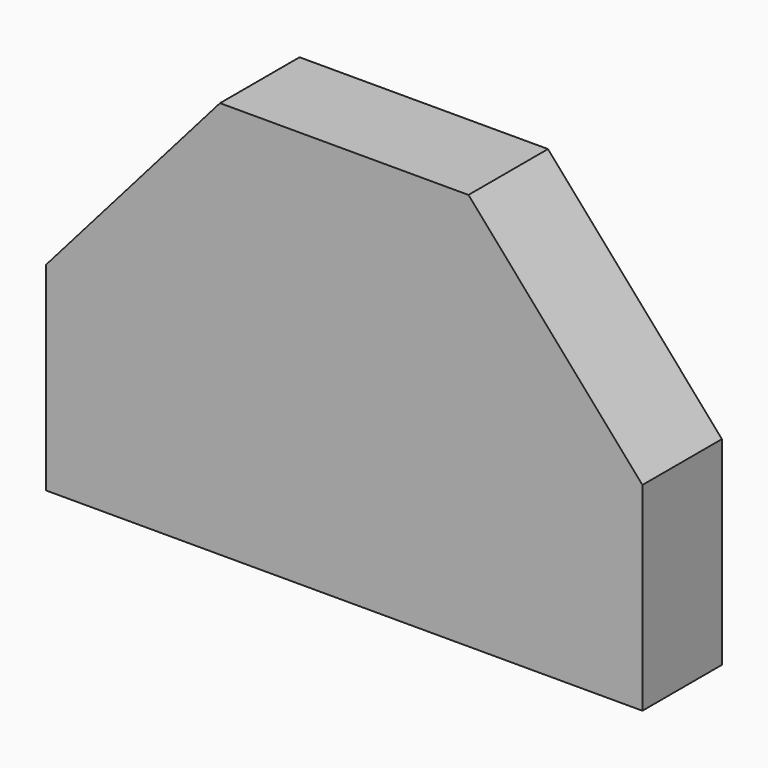
from build123d import *

# Parameters (mm, degrees)
F0_W     = 152.4
F0_H     = 50.8
F1_DEPTH = 25.4


with BuildPart() as f1:
    # F0 (on Front) → F1 (new body)
    with BuildSketch(Plane.XZ):
        Polygon((-76.2, 50.8), (76.2, 50.8), (31.75, 101.6), (-31.75, 101.6), align=None)
        with Locations((0, 25.4)):
            Rectangle(F0_W, F0_H)
    extrude(amount=F1_DEPTH)


solid = f1.part
